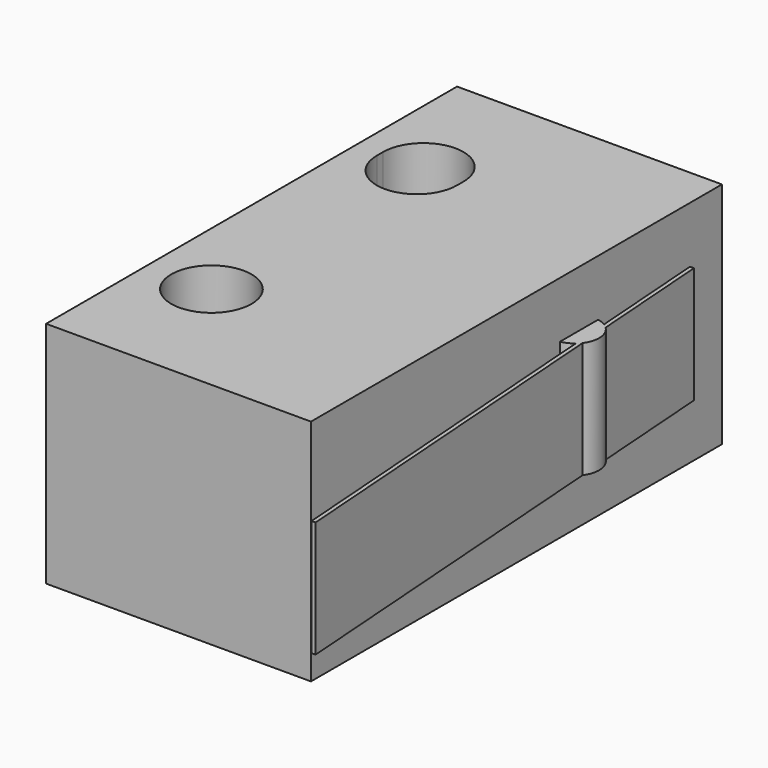
from build123d import *

# Parameters (mm, degrees)
SKETCH018_W             = 12.8
SKETCH018_H             = 6.6
SKETCH018_R             = 1
PAD004_DEPTH            = 5.7
PAD005_DEPTH            = 2.9
PAD006_DEPTH            = 2.9
BODY004_PLACEMENT_ANGLE = 90


with BuildPart() as part:
    # Sketch018 → Pad004 (new body)
    with BuildSketch(Plane.XY):
        Rectangle(SKETCH018_W, SKETCH018_H)
        with Locations((3.25, -1.7)):
            Circle(SKETCH018_R, mode=Mode.SUBTRACT)
        with BuildLine():
            ThreePointArc((-3.35, -0.7), (-4.35, -1.7), (-3.35, -2.7))
            Line((-3.35, -2.7), (-3.15, -2.7))
            ThreePointArc((-3.15, -2.7), (-2.15, -1.7), (-3.15, -0.7))
            Line((-3.15, -0.7), (-3.35, -0.7))
        make_face(mode=Mode.SUBTRACT)
    extrude(amount=PAD004_DEPTH)

    # Sketch019 (on Face11 of Pad004) → Pad005 (join)
    with BuildSketch(Plane.XY.offset(4.3)):
        with BuildLine():
            ThreePointArc((-1.35, 3.2), (-1.95, 3.8), (-2.55, 3.2))
            Line((-2.55, 3.2), (-1.35, 3.2))
        make_face()
    extrude(amount=-PAD005_DEPTH)

    # Sketch022 (on Face4 of Pad005) → Pad006 (join)
    with BuildSketch(Plane.XY.offset(4.3)):
        Polygon((-5.4, 3.3), (7.565569, 4.245522), (7.558296, 4.345257), (-5.407273, 3.399735), align=None)
    extrude(amount=-PAD006_DEPTH)


with BuildPart() as part_1:
    # Body004 placement: moved
    add(part.part.moved(Location((34, 33.95, 14))).rotate(Axis((34, 33.95, 14), (0, 0, -1)), BODY004_PLACEMENT_ANGLE))


solid = part_1.part
